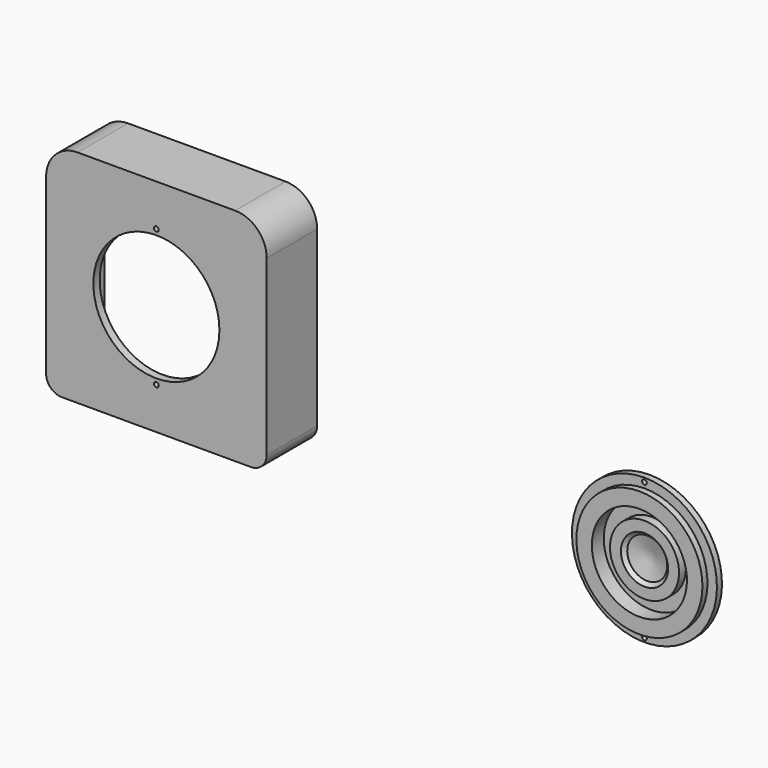
from build123d import *

# Parameters (mm, degrees)
F2_R      = 0.75
F3_DEPTH  = 25
F5_DEPTH  = 20
F6_T      = -2.5
F7_R      = 20
F8_DEPTH  = 25
F9_R      = 0.75
F10_DEPTH = 25


with BuildPart() as f1:
    # F0 (on Right) → F1 (revolve)
    with BuildSketch(Plane.YZ):
        Polygon((2, 20), (0, 20), (0, 15.089606), (2, 15.089606), (4.721145, 15.089606), (4.721145, 10.952036), (2.028715, 10.952036), (2.028715, 7.482993), (3.102437, 6.343979), (4.580645, 0), (6.88172, 0), (11.268836, 0), (6.619434, 18.28672), (3.992516, 18.28672), (3.992516, 19.735398), (3.992516, 23), (2, 23), align=None)
    revolve(axis=Axis((0, 5.731183, 0), (0, 1, 0)))

    # F2 (on face) → F3 (cut)
    with BuildSketch(Plane.XZ.offset(-2)):
        with Locations((0, 21.75)):
            Circle(F2_R)
        with Locations((0, -21.75)):
            Circle(F2_R)
    extrude(amount=-F3_DEPTH, mode=Mode.SUBTRACT)


with BuildPart() as f5:
    # F4 (on Front) → F5 (new body)
    with BuildSketch(Plane.XZ):
        with BuildLine():
            Line((-112.258063, 70), (-162.258063, 70))
            ThreePointArc((-162.258063, 70), (-169.329131, 67.071068), (-172.258063, 60))
            Line((-172.258063, 60), (-172.258063, 5))
            ThreePointArc((-172.258063, 5), (-170.793597, 1.464466), (-167.258063, 0))
            Line((-167.258063, 0), (-107.258063, 0))
            ThreePointArc((-107.258063, 0), (-103.722529, 1.464466), (-102.258063, 5))
            Line((-102.258063, 5), (-102.258063, 60))
            ThreePointArc((-102.258063, 60), (-105.186995, 67.071068), (-112.258063, 70))
        make_face()
    extrude(amount=F5_DEPTH)

    # F6
    f6_openings = [f5.faces().sort_by_distance(p)[0] for p in [
        (-137.258063, 0, 34.784833),
    ]]
    offset(amount=F6_T, openings=f6_openings)

    # F7 (on face) → F8 (cut)
    with BuildSketch(Plane.XZ.offset(20)):
        with Locations((-137.258063, 35)):
            Circle(F7_R)
    extrude(amount=-F8_DEPTH, mode=Mode.SUBTRACT)

    # F9 (on face) → F10 (cut)
    with BuildSketch(Plane.XZ.offset(20)):
        with Locations((-137.258063, 56.75)):
            Circle(F9_R)
        with Locations((-137.258063, 13.25)):
            Circle(F9_R)
    extrude(amount=-F10_DEPTH, mode=Mode.SUBTRACT)


solid = Compound([f1.part, f5.part])
